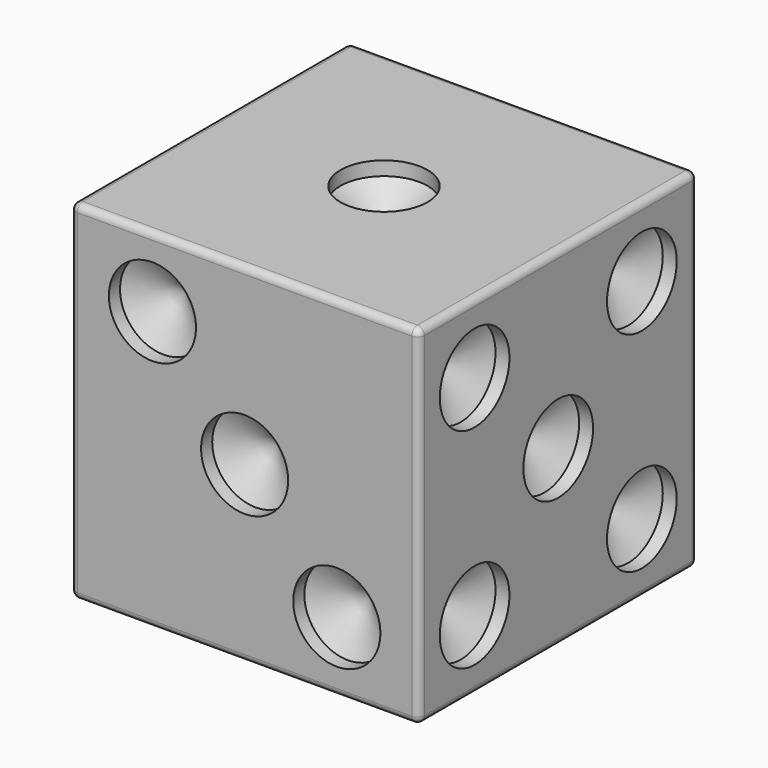
from build123d import *

# Parameters (mm, degrees)
F0_W      = 100
F0_H      = 100
F1_DEPTH  = 100
F3_D      = 25
F3_DEPTH  = 4
F3_TIP    = 7.5107577378
F5_D      = 25
F5_DEPTH  = 4
F5_TIP    = 7.5107577378
F8_D      = 25
F8_DEPTH  = 4
F8_TIP    = 7.5107577378
F10_D     = 25
F10_DEPTH = 4
F10_TIP   = 7.5107577378
F12_D     = 25
F12_DEPTH = 4
F12_TIP   = 7.5107577378
F14_D     = 25
F14_DEPTH = 4
F14_TIP   = 7.5107577378
F15_R     = 2
F16_R     = 2


with BuildPart() as f1:
    # F0 (on Top) → F1 (new body)
    with BuildSketch(Plane.XY):
        Rectangle(F0_W, F0_H)
    extrude(amount=F1_DEPTH)

    # F3
    with Locations(Plane.XY.offset(100)):
        with Locations((0, 0)):
            Hole(F3_D / 2, depth=F3_DEPTH)
            with Locations((0, 0, -(F3_DEPTH + F3_TIP / 2))):  # 118° drill point
                Cone(0, F3_D / 2, F3_TIP, mode=Mode.SUBTRACT)

    # F5
    with Locations(Plane(origin=(0, 50, 0), x_dir=(-1, 0, 0), z_dir=(0, 1, 0))):
        with Locations((-30, 80), (30, 80), (30, 20), (-30, 20)):
            Hole(F5_D / 2, depth=F5_DEPTH)
            with Locations((0, 0, -(F5_DEPTH + F5_TIP / 2))):  # 118° drill point
                Cone(0, F5_D / 2, F5_TIP, mode=Mode.SUBTRACT)

    # F8
    with Locations(Plane(origin=(-50, 0, 0), x_dir=(0, -1, 0), z_dir=(-1, 0, 0))):
        with Locations((0, 80), (0, 20)):
            Hole(F8_D / 2, depth=F8_DEPTH)
            with Locations((0, 0, -(F8_DEPTH + F8_TIP / 2))):  # 118° drill point
                Cone(0, F8_D / 2, F8_TIP, mode=Mode.SUBTRACT)

    # F10
    with Locations(Plane(origin=(0, 0, 0), x_dir=(1, 0, 0), z_dir=(0, 0, -1))):
        with Locations((30, -30), (30, 0), (30, 30), (-30, -30), (-30, 0), (-30, 30)):
            Hole(F10_D / 2, depth=F10_DEPTH)
            with Locations((0, 0, -(F10_DEPTH + F10_TIP / 2))):  # 118° drill point
                Cone(0, F10_D / 2, F10_TIP, mode=Mode.SUBTRACT)

    # F12
    with Locations(Plane.XZ.offset(50)):
        with Locations((26.4575131106, 20), (0, 50), (-26.4575131106, 80)):
            Hole(F12_D / 2, depth=F12_DEPTH)
            with Locations((0, 0, -(F12_DEPTH + F12_TIP / 2))):  # 118° drill point
                Cone(0, F12_D / 2, F12_TIP, mode=Mode.SUBTRACT)

    # F14
    with Locations(Plane.YZ.offset(50)):
        with Locations((30, 20), (-30, 20), (0, 50), (-30, 80), (30, 80)):
            Hole(F14_D / 2, depth=F14_DEPTH)
            with Locations((0, 0, -(F14_DEPTH + F14_TIP / 2))):  # 118° drill point
                Cone(0, F14_D / 2, F14_TIP, mode=Mode.SUBTRACT)

    # F15
    f15_edges = [f1.edges().sort_by_distance(p)[0] for p in [
        (0, 50, 0),
    ]]
    fillet(f15_edges, radius=F15_R)

    # F16
    f16_edges = [f1.edges().sort_by_distance(p)[0] for p in [
        (50, -1, 0),
        (50, 50, 51),
        (50, 0, 100),
        (0, 50, 100),
        (-50, 0, 100),
        (-50, 50, 51),
        (0, -50, 100),
        (-50, -50, 50),
        (0, -50, 0),
        (50, -50, 50),
    ]]
    fillet(f16_edges, radius=F16_R)


solid = f1.part
